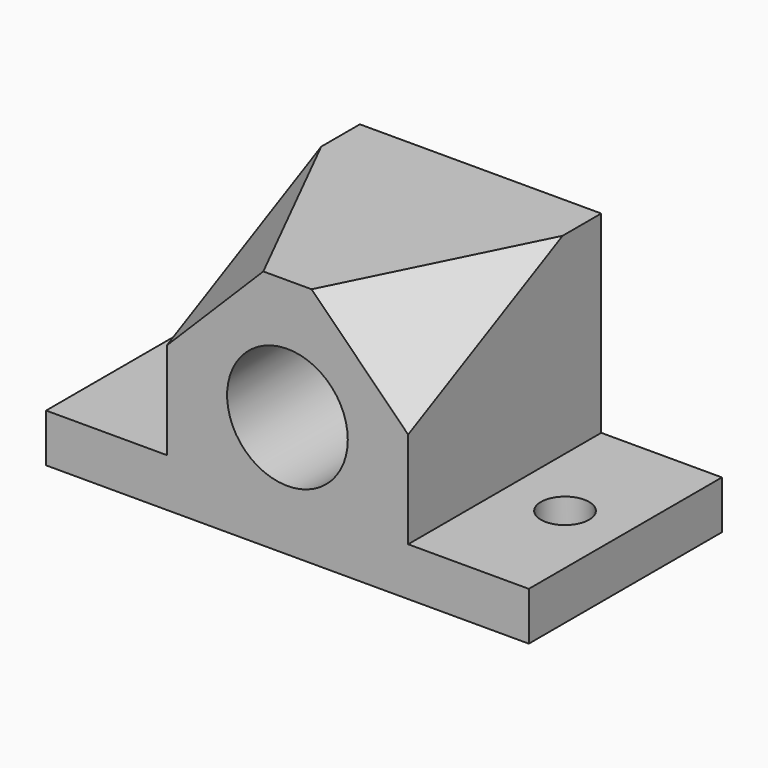
from build123d import *

# Parameters (mm, degrees)
F0_W      = 100
F0_H      = 50
F1_DEPTH  = 50
F2_R      = 12.5
F3_DEPTH  = 50.001
F4_W      = 25
F4_H      = 40
F5_DEPTH  = 50.001
F6_R      = 5
F7_DEPTH  = 50.001
F12_W     = 63.2883179933
F12_H     = 65.7318904996
F13_DEPTH = 13.3333333333
F18_W     = 70.068154484
F18_H     = 62.6709284261
F19_DEPTH = 40


with BuildPart() as f1:
    # F0 (on Top) → F1 (new body)
    with BuildSketch(Plane.XY):
        Rectangle(F0_W, F0_H)
    extrude(amount=F1_DEPTH)

    # F2 (on face) → F3 (cut, through all)
    with BuildSketch(Plane.XZ.offset(25)):
        with Locations((0, 25)):
            Circle(F2_R)
    extrude(amount=-F3_DEPTH, mode=Mode.SUBTRACT)

    # F4 (on face) → F5 (cut, through all)
    with BuildSketch(Plane.XZ.offset(25)):
        with Locations((-37.5, 30)):
            Rectangle(F4_W, F4_H)
        with Locations((37.5, 30)):
            Rectangle(F4_W, F4_H)
    extrude(amount=-F5_DEPTH, mode=Mode.SUBTRACT)

    # F6 (on face) → F7 (cut, through all)
    with BuildSketch(Plane(origin=(0, 0, 0), x_dir=(1, 0, 0), z_dir=(0, 0, -1))):
        with Locations((-37.5, 0)):
            Circle(F6_R)
        with Locations((37.5, 0)):
            Circle(F6_R)
    extrude(amount=-F7_DEPTH, mode=Mode.SUBTRACT)

    # F12 (on plane+point) → F13 (cut, through all)
    with BuildSketch(Plane(origin=(38.8888888889, -19.4444444444, 38.8888888889), x_dir=(-0.2357022604, -0.9428090416, -0.2357022604), z_dir=(-0.6666666667, 0.3333333333, -0.6666666667))):
        with Locations((-9.0131862089, 14.5010352135)):
            Rectangle(F12_W, F12_H)
    extrude(amount=F13_DEPTH, mode=Mode.SUBTRACT)

    # F18 (on offset) → F19 (cut, through all)
    with BuildSketch(Plane(origin=(-56.6666666667, -28.3333333333, 56.6666666667), x_dir=(0.2357022604, -0.9428090416, -0.2357022604), z_dir=(-0.6666666667, -0.3333333333, 0.6666666667))):
        with Locations((-7.6787043363, 18.9961208962)):
            Rectangle(F18_W, F18_H)
    extrude(amount=-F19_DEPTH, mode=Mode.SUBTRACT)


solid = f1.part
